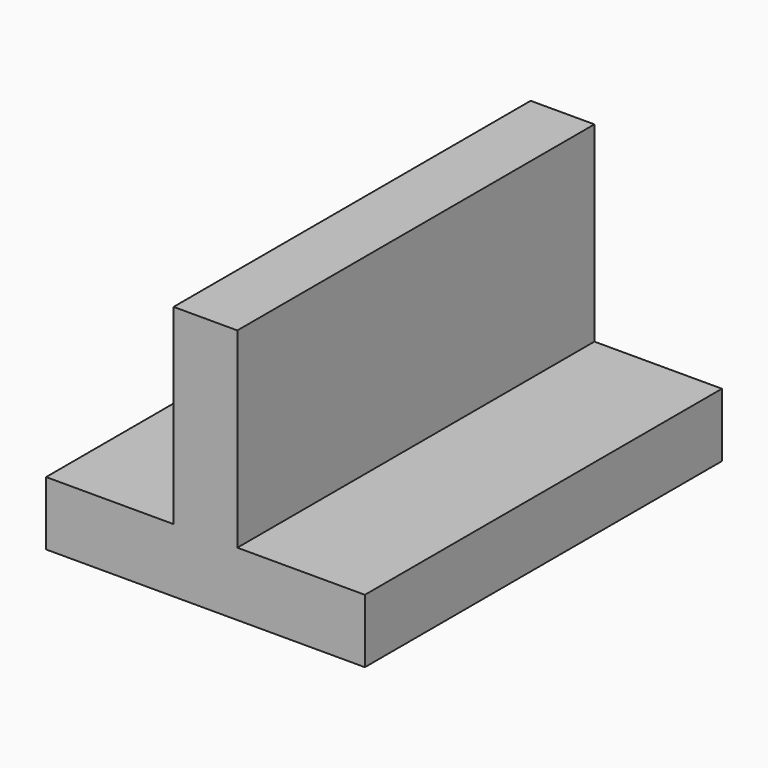
from build123d import *

# Parameters (mm, degrees)
F0_W     = 5
F0_H     = 15
F1_DEPTH = 35


with BuildPart() as f1:
    # F0 (on Front) → F1 (new body)
    with BuildSketch(Plane.XZ):
        with Locations((-31.463724, 19.910477)):
            Rectangle(F0_W, F0_H)
        Polygon((-33.963724, 12.410477), (-43.963724, 12.410477), (-43.963724, 7.410477), (-18.963724, 7.410477), (-18.963724, 12.410477), (-28.963724, 12.410477), align=None)
    extrude(amount=F1_DEPTH)


solid = f1.part
